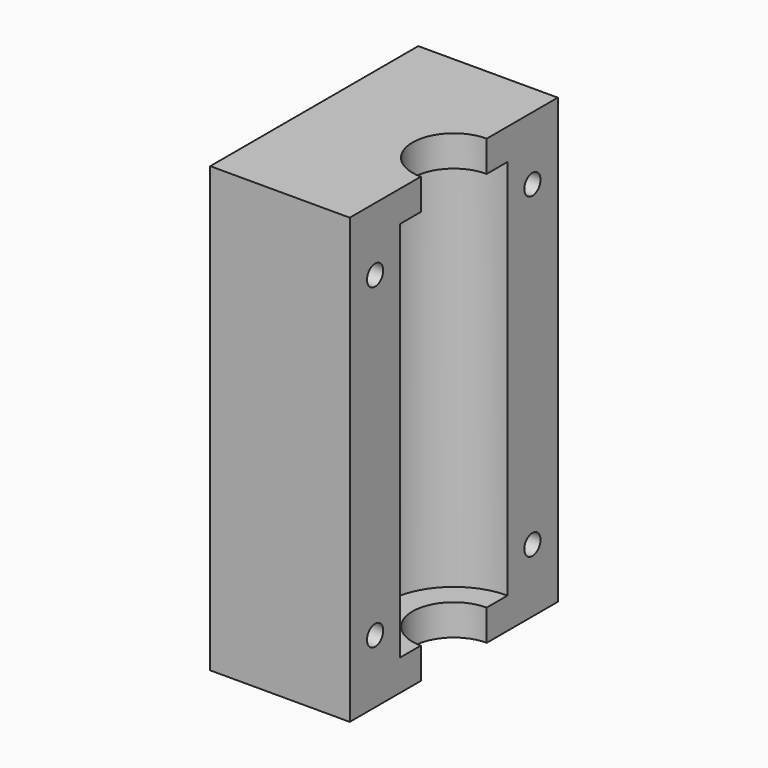
from build123d import *

# Parameters (mm, degrees)
PAD_DEPTH       = 35
SKETCH001_R     = 10.6
POCKET_DEPTH    = 30.1
SKETCH002_R     = 1.6
POCKET001_DEPTH = 22.001
POCKET002_DEPTH = 5


with BuildPart() as part:
    # Sketch → Pad (new body, symmetric)
    with BuildSketch(Plane.XY):
        with BuildLine():
            ThreePointArc((0, 6.5), (-6.5, 0), (0, -6.5))
            Line((0, -6.5), (0, -20.5))
            Line((0, -20.5), (-22, -20.5))
            Line((-22, 20.5), (-22, -20.5))
            Line((-22, 20.5), (0, 20.5))
            Line((0, 20.5), (0, 6.5))
        make_face()
    extrude(amount=PAD_DEPTH, both=True)

    # Sketch001 → Pocket (cut, symmetric)
    with BuildSketch(Plane.XY):
        Circle(SKETCH001_R)
    extrude(amount=POCKET_DEPTH, both=True, mode=Mode.SUBTRACT)

    # Sketch002 → Pocket001 (cut, through all)
    with BuildSketch(Plane.YZ):
        with Locations((-15.5, 25)):
            Circle(SKETCH002_R)
        with Locations((-15.5, -25)):
            Circle(SKETCH002_R)
        with Locations((15.5, 25)):
            Circle(SKETCH002_R)
        with Locations((15.5, -25)):
            Circle(SKETCH002_R)
    extrude(amount=-POCKET001_DEPTH, mode=Mode.SUBTRACT)

    # Sketch003 (on Face2 of Pocket001) → Pocket002 (cut)
    with BuildSketch(Plane(origin=(-22, 0, 0), x_dir=(0, -1, 0), z_dir=(-1, 0, 0))):
        Polygon((-12.75, 23.412287), (-12.75, 26.587713), (-15.5, 28.175426), (-18.25, 26.587713), (-18.25, 23.412287), (-15.5, 21.824574), align=None)
        Polygon((12.75, 26.587713), (12.75, 23.412287), (15.5, 21.824574), (18.25, 23.412287), (18.25, 26.587713), (15.5, 28.175426), align=None)
        Polygon((-18.25, -23.412287), (-18.25, -26.587713), (-15.5, -28.175426), (-12.75, -26.587713), (-12.75, -23.412287), (-15.5, -21.824574), align=None)
        Polygon((12.75, -23.412287), (12.75, -26.587713), (15.5, -28.175426), (18.25, -26.587713), (18.25, -23.412287), (15.5, -21.824574), align=None)
    extrude(amount=-POCKET002_DEPTH, mode=Mode.SUBTRACT)


solid = part.part
